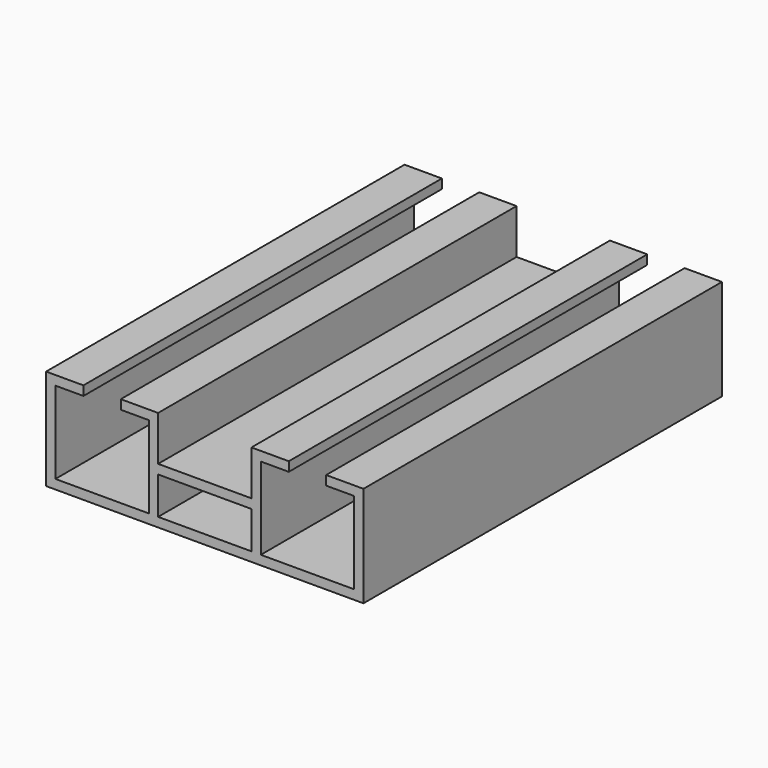
from build123d import *

# Parameters (mm, degrees)
F0_W     = 25
F0_H     = 10
F1_DEPTH = 60


with BuildPart() as f1:
    # F0 (on Front) → F1 (new body, symmetric)
    with BuildSketch(Plane.XZ):
        Polygon((42.5, -17.5), (42.5, 9.5), (32.5, 9.5), (32.5, 7), (40, 7), (40, -15), (15, -15), (15, 7), (22.5, 7), (22.5, 9.5), (12.5, 9.5), (12.5, -2.5), (-12.5, -2.5), (-12.5, 9.5), (-22.5, 9.5), (-22.5, 7), (-15, 7), (-15, -15), (-40, -15), (-40, 7), (-32.5, 7), (-32.5, 9.5), (-42.5, 9.5), (-42.5, -17.5), align=None)
        with Locations((0, -10)):
            Rectangle(F0_W, F0_H, mode=Mode.SUBTRACT)
    extrude(amount=F1_DEPTH, both=True)


solid = f1.part
